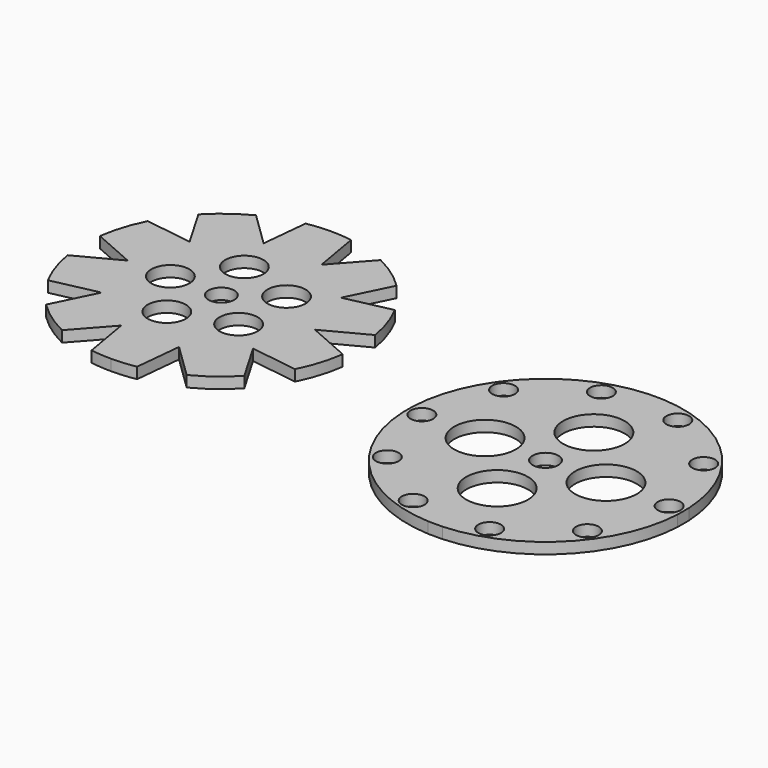
from build123d import *

# Parameters (mm, degrees)
F0_R     = 5.193884
F0_R_2   = 3.5
F1_DEPTH = 3
F2_R     = 3.085118
F2_R_2   = 8.393476
F2_R_3   = 3.5
F3_DEPTH = 3


with BuildPart() as f1:
    # F0 (on Top) → F1 (new body)
    with BuildSketch(Plane.XY):
        with BuildLine():
            ThreePointArc((-5.657545, -37.070773), (-2.836902, -37.392539), (0, -37.5))
            ThreePointArc((0, -37.5), (3.31352, -37.353321), (6.601118, -36.914431))
            Line((6.601118, -36.914431), (7.873572, -24.232362))
            Line((7.873572, -24.232362), (17.212603, -33.316307))
            ThreePointArc((17.212603, -33.316307), (22.427041, -30.054581), (27.038175, -25.984363))
            Line((27.038175, -25.984363), (20.613279, -14.976424))
            Line((20.613279, -14.976424), (33.508122, -16.836144))
            ThreePointArc((33.508122, -16.836144), (35.809497, -11.132382), (37.147568, -5.12915))
            Line((37.147568, -5.12915), (25.479414, 0))
            Line((25.479414, 0), (37.004678, 6.074853))
            ThreePointArc((37.004678, 6.074853), (35.513942, 12.042008), (33.067853, 17.685223))
            Line((33.067853, 17.685223), (20.613279, 14.976424))
            Line((20.613279, 14.976424), (26.366704, 26.665463))
            ThreePointArc((26.366704, 26.665463), (21.653268, 30.61676), (16.357342, 33.744442))
            Line((16.357342, 33.744442), (7.873572, 24.232362))
            Line((7.873572, 24.232362), (5.657545, 37.070773))
            ThreePointArc((5.657545, 37.070773), (2.836902, 37.392539), (0, 37.5))
            ThreePointArc((0, 37.5), (-3.31352, 37.353321), (-6.601118, 36.914431))
            Line((-6.601118, 36.914431), (-7.873572, 24.232362))
            Line((-7.873572, 24.232362), (-17.212603, 33.316307))
            ThreePointArc((-17.212603, 33.316307), (-22.427041, 30.054581), (-27.038175, 25.984363))
            Line((-27.038175, 25.984363), (-20.613279, 14.976424))
            Line((-20.613279, 14.976424), (-33.508122, 16.836144))
            ThreePointArc((-33.508122, 16.836144), (-35.809497, 11.132382), (-37.147568, 5.12915))
            Line((-37.147568, 5.12915), (-25.479414, 0))
            Line((-25.479414, 0), (-37.004678, -6.074853))
            ThreePointArc((-37.004678, -6.074853), (-35.513942, -12.042008), (-33.067853, -17.685223))
            Line((-33.067853, -17.685223), (-20.613279, -14.976424))
            Line((-20.613279, -14.976424), (-26.366704, -26.665463))
            ThreePointArc((-26.366704, -26.665463), (-21.653268, -30.61676), (-16.357342, -33.744442))
            Line((-16.357342, -33.744442), (-7.873572, -24.232362))
            Line((-7.873572, -24.232362), (-5.657545, -37.070773))
        make_face()
        with Locations((-4.286855, -13.193583)):
            Circle(F0_R, mode=Mode.SUBTRACT)
        with Locations((11.223132, -8.154083)):
            Circle(F0_R, mode=Mode.SUBTRACT)
        with Locations((-13.872555, 0)):
            Circle(F0_R, mode=Mode.SUBTRACT)
        with Locations((-4.286855, 13.193583)):
            Circle(F0_R, mode=Mode.SUBTRACT)
        Circle(F0_R_2, mode=Mode.SUBTRACT)
        with Locations((11.223132, 8.154083)):
            Circle(F0_R, mode=Mode.SUBTRACT)
    extrude(amount=F1_DEPTH)


with BuildPart() as f3:
    # F2 (on Top) → F3 (new body)
    with BuildSketch(Plane.XY):
        with BuildLine():
            Line((99.355972, -53.842231), (103.258298, -53.842231))
            ThreePointArc((103.258298, -53.842231), (127.859508, -42.894604), (138.807135, -18.293394))
            Line((138.807135, -18.293394), (138.807135, -14.391068))
            ThreePointArc((138.807135, -14.391068), (127.859508, 10.210142), (103.258298, 21.157769))
            Line((103.258298, 21.157769), (99.355972, 21.157769))
            ThreePointArc((99.355972, 21.157769), (74.754762, 10.210142), (63.807135, -14.391068))
            Line((63.807135, -14.391068), (63.807135, -18.293394))
            ThreePointArc((63.807135, -18.293394), (74.754762, -42.894604), (99.355972, -53.842231))
        make_face()
        with Locations((74.07941, -36.124331)):
            Circle(F2_R, mode=Mode.SUBTRACT)
        with Locations((90.907069, -48.350342)):
            Circle(F2_R, mode=Mode.SUBTRACT)
        with Locations((111.707201, -48.350342)):
            Circle(F2_R, mode=Mode.SUBTRACT)
        with Locations((128.53486, -36.124331)):
            Circle(F2_R, mode=Mode.SUBTRACT)
        with Locations((101.307135, -32.799234)):
            Circle(F2_R_2, mode=Mode.SUBTRACT)
        with Locations((134.962454, -16.342231)):
            Circle(F2_R, mode=Mode.SUBTRACT)
        with Locations((67.651816, -16.342231)):
            Circle(F2_R, mode=Mode.SUBTRACT)
        with Locations((84.850132, -16.342231)):
            Circle(F2_R_2, mode=Mode.SUBTRACT)
        with Locations((74.07941, 3.439869)):
            Circle(F2_R, mode=Mode.SUBTRACT)
        with Locations((90.907069, 15.66588)):
            Circle(F2_R, mode=Mode.SUBTRACT)
        with Locations((101.307135, -16.342231)):
            Circle(F2_R_3, mode=Mode.SUBTRACT)
        with Locations((117.764138, -16.342231)):
            Circle(F2_R_2, mode=Mode.SUBTRACT)
        with Locations((101.307135, 0.114772)):
            Circle(F2_R_2, mode=Mode.SUBTRACT)
        with Locations((111.707201, 15.66588)):
            Circle(F2_R, mode=Mode.SUBTRACT)
        with Locations((128.53486, 3.439869)):
            Circle(F2_R, mode=Mode.SUBTRACT)
    extrude(amount=F3_DEPTH)


solid = Compound([f1.part, f3.part])
